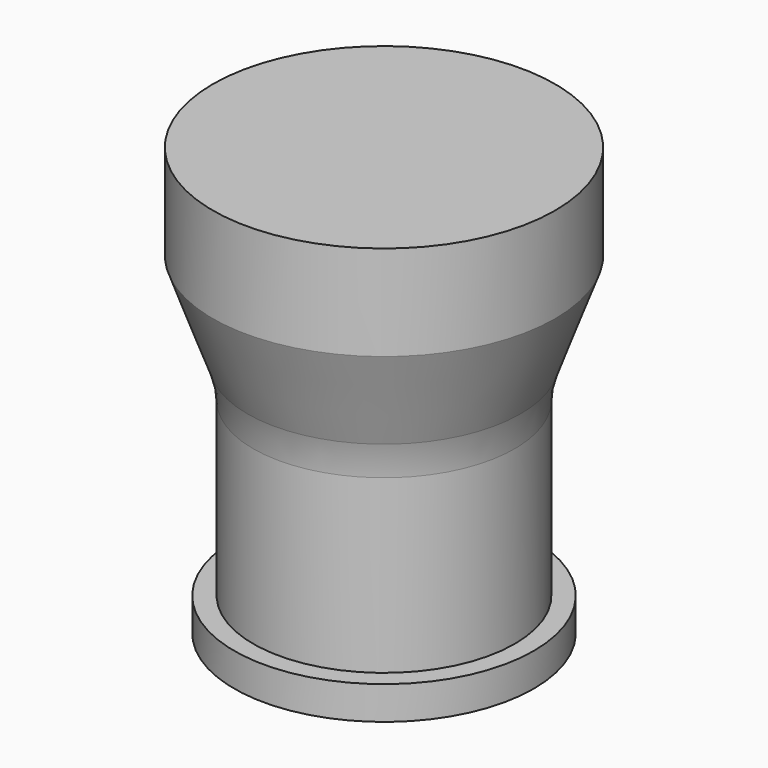
from build123d import *

# Parameters (mm, degrees)
F2_R = 20


with BuildPart() as f1:
    # F0 (on Front) → F1 (revolve)
    with BuildSketch(Plane.XZ):
        Polygon((0, -90), (0, 0), (-36, 0), (-36, -20), (-27.5, -43.353558), (-27.5, -83), (-31.5, -83), (-31.5, -90), align=None)
    revolve(axis=Axis((0, 0, -26.769872), (0, 0, -1)))

    # F2
    f2_edges = [f1.edges().sort_by_distance(p)[0] for p in [
        (27.5, 0, -43.353558),
    ]]
    fillet(f2_edges, radius=F2_R)


solid = f1.part
